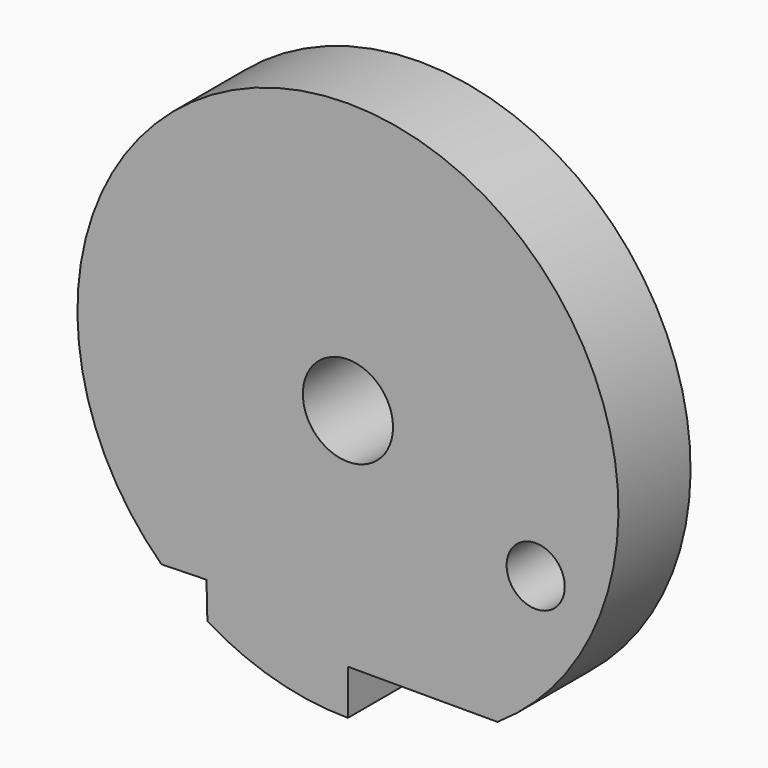
from build123d import *

# Parameters (mm, degrees)
F0_R     = 1.02362
F0_R_2   = 1.5875
F1_DEPTH = 1.5875


with BuildPart() as f1:
    # F0 (on Front) → F1 (new body, symmetric)
    with BuildSketch(Plane.XZ):
        with BuildLine():
            Line((-4.501804, -1.775407), (-4.471419, -3.052185))
            ThreePointArc((-4.471419, -3.052185), (-2.092182, -4.085642), (0.47765, -4.438859))
            Line((0.47765, -4.438859), (0.47765, -2.851359))
            Line((0.47765, -2.851359), (5.742792, -2.851359))
            ThreePointArc((5.742792, -2.851359), (1.310194, 14.574686), (-6.089304, -1.813188))
            Line((-6.089304, -1.813188), (-4.501804, -1.775407))
        make_face()
        with Locations((7.089037, 2.107543)):
            Circle(F0_R, mode=Mode.SUBTRACT)
        with Locations((0.47765, 5.086141)):
            Circle(F0_R_2, mode=Mode.SUBTRACT)
    extrude(amount=F1_DEPTH, both=True)


solid = f1.part
